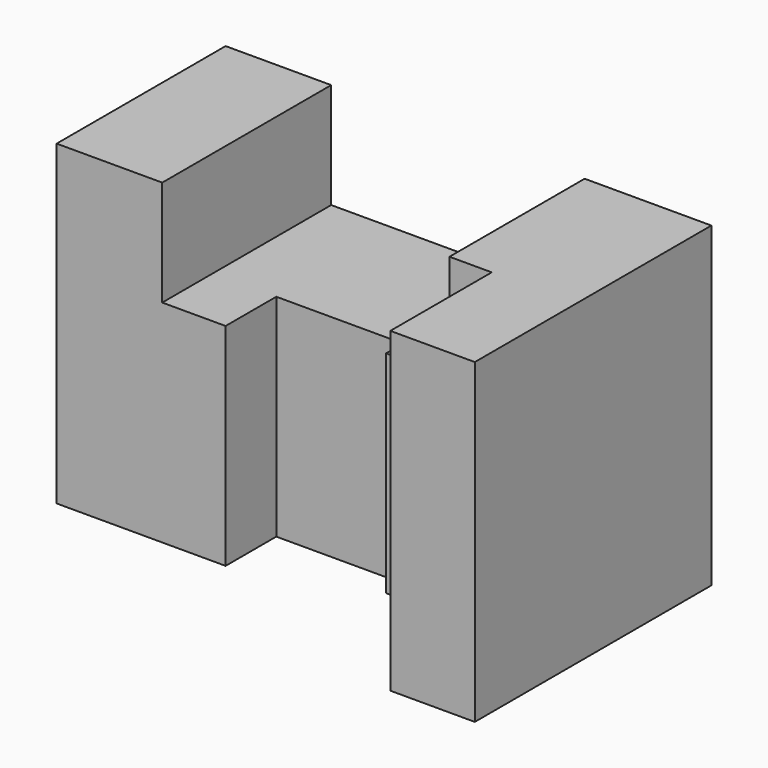
from build123d import *

# Parameters (mm, degrees)
F0_W     = 115
F0_H     = 75
F1_DEPTH = 70
F2_W     = 60
F2_H     = 25
F3_DEPTH = 70
F4_W     = 10
F4_H     = 30
F5_DEPTH = 75
F6_W     = 30
F6_H     = 5
F6_W_2   = 15
F6_H_2   = 20
F7_DEPTH = 50
F8_W     = 25
F8_H     = 20
F9_DEPTH = 75


with BuildPart() as f1:
    # F0 (on Front) → F1 (new body)
    with BuildSketch(Plane.XZ):
        with Locations((57.5, 37.5)):
            Rectangle(F0_W, F0_H)
    extrude(amount=F1_DEPTH)

    # F2 (on face) → F3 (cut)
    with BuildSketch(Plane.XZ.offset(70)):
        with Locations((55, 62.5)):
            Rectangle(F2_W, F2_H)
    extrude(amount=-F3_DEPTH, mode=Mode.SUBTRACT)

    # F4 (on face) → F5 (cut)
    with BuildSketch(Plane.XY.offset(75)):
        with Locations((90, -55)):
            Rectangle(F4_W, F4_H)
    extrude(amount=-F5_DEPTH, mode=Mode.SUBTRACT)

    # F6 (on face) → F7 (cut)
    with BuildSketch(Plane.XY.offset(50)):
        Polygon((85, -70), (85, -40), (70, -40), (40, -40), (40, -50), (40, -70), align=None)
        with Locations((55, -37.5)):
            Rectangle(F6_W, F6_H)
        with Locations((32.5, -60)):
            Rectangle(F6_W_2, F6_H_2)
    extrude(amount=-F7_DEPTH, mode=Mode.SUBTRACT)

    # F8 (on face) → F9 (cut)
    with BuildSketch(Plane.XY.offset(75)):
        with Locations((12.5, -60)):
            Rectangle(F8_W, F8_H)
    extrude(amount=-F9_DEPTH, mode=Mode.SUBTRACT)


solid = f1.part
